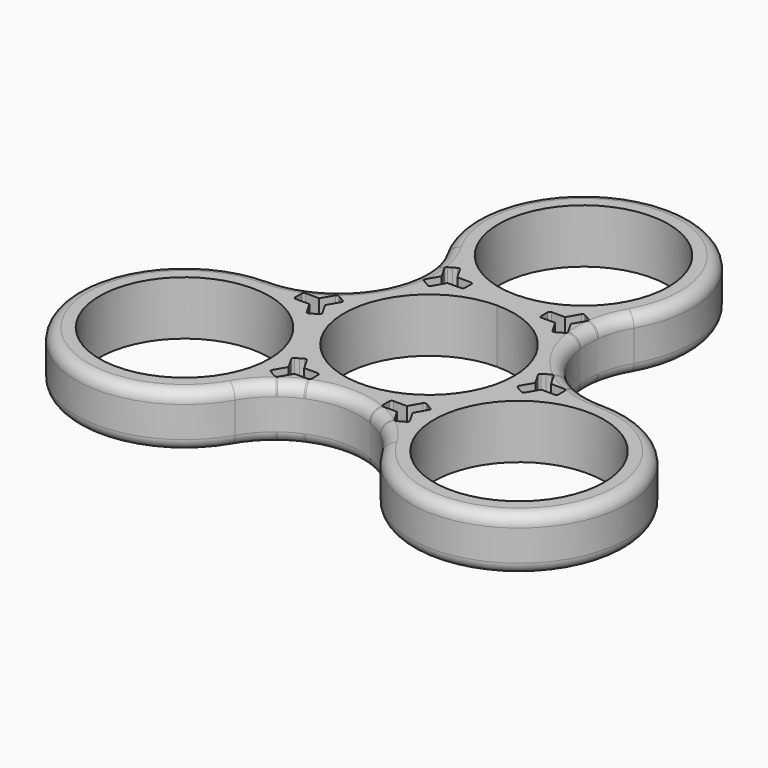
from build123d import *

# Parameters (mm, degrees)
F0_R     = 11
F1_DEPTH = 7
F2_R     = 1.5


with BuildPart() as f1:
    # F0 (on Top) → F1 (new body)
    with BuildSketch(Plane.XY):
        with BuildLine():
            ThreePointArc((21.650635, 1.5), (12.124356, 7), (12.124356, 18))
            ThreePointArc((12.124356, 18), (0, 39), (-12.124356, 18))
            ThreePointArc((-12.124356, 18), (-12.124356, 7), (-21.650635, 1.5))
            ThreePointArc((-21.650635, 1.5), (-33.774991, -19.5), (-9.526279, -19.5))
            ThreePointArc((-9.526279, -19.5), (0, -14), (9.526279, -19.5))
            ThreePointArc((9.526279, -19.5), (33.774991, -19.5), (21.650635, 1.5))
        make_face()
        with Locations((-21.650635, -12.5)):
            Circle(F0_R, mode=Mode.SUBTRACT)
        with BuildLine():
            Line((-6.645887, -13.488987), (-7.527324, -15.015681))
            ThreePointArc((-7.527324, -15.015681), (-7.694454, -15.143925), (-7.903316, -15.116428))
            Line((-7.903316, -15.116428), (-8.357767, -14.85405))
            Line((-8.357767, -14.85405), (-8.812218, -14.591673))
            ThreePointArc((-8.812218, -14.591673), (-8.940462, -14.424542), (-8.912965, -14.215681))
            Line((-8.912965, -14.215681), (-8.031527, -12.688987))
            Line((-8.031527, -12.688987), (-8.912965, -11.162293))
            ThreePointArc((-8.912965, -11.162293), (-8.940462, -10.953431), (-8.812218, -10.786301))
            Line((-8.812218, -10.786301), (-8.357767, -10.523923))
            Line((-8.357767, -10.523923), (-7.903316, -10.261546))
            ThreePointArc((-7.903316, -10.261546), (-7.694454, -10.234049), (-7.527324, -10.362293))
            Line((-7.527324, -10.362293), (-6.645887, -11.888987))
            Line((-6.645887, -11.888987), (-4.883012, -11.888987))
            ThreePointArc((-4.883012, -11.888987), (-4.688384, -11.969604), (-4.607767, -12.164232))
            Line((-4.607767, -12.164232), (-4.607767, -12.688987))
            Line((-4.607767, -12.688987), (-4.607767, -13.213742))
            ThreePointArc((-4.607767, -13.213742), (-4.688384, -13.408369), (-4.883012, -13.488987))
            Line((-4.883012, -13.488987), (-6.645887, -13.488987))
        make_face(mode=Mode.SUBTRACT)
        with BuildLine():
            Line((-13.74732, 2.616428), (-13.292868, 2.35405))
            Line((-13.292868, 2.35405), (-12.838417, 2.091673))
            ThreePointArc((-12.838417, 2.091673), (-12.710173, 1.924542), (-12.737671, 1.715681))
            Line((-12.737671, 1.715681), (-13.619108, 0.188987))
            Line((-13.619108, 0.188987), (-12.737671, -1.337707))
            ThreePointArc((-12.737671, -1.337707), (-12.710173, -1.546569), (-12.838417, -1.713699))
            Line((-12.838417, -1.713699), (-13.292868, -1.976077))
            Line((-13.292868, -1.976077), (-13.74732, -2.238454))
            ThreePointArc((-13.74732, -2.238454), (-13.956181, -2.265951), (-14.123311, -2.137707))
            Line((-14.123311, -2.137707), (-15.004749, -0.611013))
            Line((-15.004749, -0.611013), (-16.767623, -0.611013))
            ThreePointArc((-16.767623, -0.611013), (-16.962251, -0.530396), (-17.042868, -0.335768))
            Line((-17.042868, -0.335768), (-17.042868, 0.188987))
            Line((-17.042868, 0.188987), (-17.042868, 0.713742))
            ThreePointArc((-17.042868, 0.713742), (-16.962251, 0.908369), (-16.767623, 0.988987))
            Line((-16.767623, 0.988987), (-15.004749, 0.988987))
            Line((-15.004749, 0.988987), (-14.123311, 2.515681))
            ThreePointArc((-14.123311, 2.515681), (-13.956181, 2.643925), (-13.74732, 2.616428))
        make_face(mode=Mode.SUBTRACT)
        with BuildLine():
            Line((4.607767, -13.213742), (4.607767, -12.688987))
            Line((4.607767, -12.688987), (4.607767, -12.164232))
            ThreePointArc((4.607767, -12.164232), (4.688384, -11.969604), (4.883012, -11.888987))
            Line((4.883012, -11.888987), (6.645887, -11.888987))
            Line((6.645887, -11.888987), (7.527324, -10.362293))
            ThreePointArc((7.527324, -10.362293), (7.694454, -10.234049), (7.903316, -10.261546))
            Line((7.903316, -10.261546), (8.357767, -10.523923))
            Line((8.357767, -10.523923), (8.812218, -10.786301))
            ThreePointArc((8.812218, -10.786301), (8.940462, -10.953431), (8.912965, -11.162293))
            Line((8.912965, -11.162293), (8.031527, -12.688987))
            Line((8.031527, -12.688987), (8.912965, -14.215681))
            ThreePointArc((8.912965, -14.215681), (8.940462, -14.424542), (8.812218, -14.591673))
            Line((8.812218, -14.591673), (8.357767, -14.85405))
            Line((8.357767, -14.85405), (7.903316, -15.116428))
            ThreePointArc((7.903316, -15.116428), (7.694454, -15.143925), (7.527324, -15.015681))
            Line((7.527324, -15.015681), (6.645887, -13.488987))
            Line((6.645887, -13.488987), (4.883012, -13.488987))
            ThreePointArc((4.883012, -13.488987), (4.688384, -13.408369), (4.607767, -13.213742))
        make_face(mode=Mode.SUBTRACT)
        with Locations((21.650635, -12.5)):
            Circle(F0_R, mode=Mode.SUBTRACT)
        with BuildLine():
            ThreePointArc((0, 11), (7.778175, 7.778175), (11, 0))
            ThreePointArc((11, 0), (-7.778175, -7.778175), (0, 11))
        make_face(mode=Mode.SUBTRACT)
        with BuildLine():
            Line((15.004749, 0.988987), (16.767623, 0.988987))
            ThreePointArc((16.767623, 0.988987), (16.962251, 0.908369), (17.042868, 0.713742))
            Line((17.042868, 0.713742), (17.042868, 0.188987))
            Line((17.042868, 0.188987), (17.042868, -0.335768))
            ThreePointArc((17.042868, -0.335768), (16.962251, -0.530396), (16.767623, -0.611013))
            Line((16.767623, -0.611013), (15.004749, -0.611013))
            Line((15.004749, -0.611013), (14.123311, -2.137707))
            ThreePointArc((14.123311, -2.137707), (13.956181, -2.265951), (13.74732, -2.238454))
            Line((13.74732, -2.238454), (13.292868, -1.976077))
            Line((13.292868, -1.976077), (12.838417, -1.713699))
            ThreePointArc((12.838417, -1.713699), (12.710173, -1.546569), (12.737671, -1.337707))
            Line((12.737671, -1.337707), (13.619108, 0.188987))
            Line((13.619108, 0.188987), (12.737671, 1.715681))
            ThreePointArc((12.737671, 1.715681), (12.710173, 1.924542), (12.838417, 2.091673))
            Line((12.838417, 2.091673), (13.292868, 2.35405))
            Line((13.292868, 2.35405), (13.74732, 2.616428))
            ThreePointArc((13.74732, 2.616428), (13.956181, 2.643925), (14.123311, 2.515681))
            Line((14.123311, 2.515681), (15.004749, 0.988987))
        make_face(mode=Mode.SUBTRACT)
        with BuildLine():
            ThreePointArc((-8.23065, 14.927441), (-8.021789, 14.954938), (-7.854659, 14.826694))
            Line((-7.854659, 14.826694), (-6.973221, 13.3))
            Line((-6.973221, 13.3), (-5.210347, 13.3))
            ThreePointArc((-5.210347, 13.3), (-5.015719, 13.219383), (-4.935102, 13.024755))
            Line((-4.935102, 13.024755), (-4.935102, 12.5))
            Line((-4.935102, 12.5), (-4.935102, 11.975245))
            ThreePointArc((-4.935102, 11.975245), (-5.015719, 11.780617), (-5.210347, 11.7))
            Line((-5.210347, 11.7), (-6.973221, 11.7))
            Line((-6.973221, 11.7), (-7.854659, 10.173306))
            ThreePointArc((-7.854659, 10.173306), (-8.021789, 10.045062), (-8.23065, 10.072559))
            Line((-8.23065, 10.072559), (-8.685102, 10.334936))
            Line((-8.685102, 10.334936), (-9.139553, 10.597314))
            ThreePointArc((-9.139553, 10.597314), (-9.267797, 10.764445), (-9.240299, 10.973306))
            Line((-9.240299, 10.973306), (-8.358862, 12.5))
            Line((-8.358862, 12.5), (-9.240299, 14.026694))
            ThreePointArc((-9.240299, 14.026694), (-9.267797, 14.235555), (-9.139553, 14.402686))
            Line((-9.139553, 14.402686), (-8.685102, 14.665064))
            Line((-8.685102, 14.665064), (-8.23065, 14.927441))
        make_face(mode=Mode.SUBTRACT)
        with BuildLine():
            Line((4.935102, 11.975245), (4.935102, 12.5))
            Line((4.935102, 12.5), (4.935102, 13.024755))
            ThreePointArc((4.935102, 13.024755), (5.015719, 13.219383), (5.210347, 13.3))
            Line((5.210347, 13.3), (6.973221, 13.3))
            Line((6.973221, 13.3), (7.854659, 14.826694))
            ThreePointArc((7.854659, 14.826694), (8.021789, 14.954938), (8.23065, 14.927441))
            Line((8.23065, 14.927441), (8.685102, 14.665064))
            Line((8.685102, 14.665064), (9.139553, 14.402686))
            ThreePointArc((9.139553, 14.402686), (9.267797, 14.235555), (9.240299, 14.026694))
            Line((9.240299, 14.026694), (8.358862, 12.5))
            Line((8.358862, 12.5), (9.240299, 10.973306))
            ThreePointArc((9.240299, 10.973306), (9.267797, 10.764445), (9.139553, 10.597314))
            Line((9.139553, 10.597314), (8.685102, 10.334936))
            Line((8.685102, 10.334936), (8.23065, 10.072559))
            ThreePointArc((8.23065, 10.072559), (8.021789, 10.045062), (7.854659, 10.173306))
            Line((7.854659, 10.173306), (6.973221, 11.7))
            Line((6.973221, 11.7), (5.210347, 11.7))
            ThreePointArc((5.210347, 11.7), (5.015719, 11.780617), (4.935102, 11.975245))
        make_face(mode=Mode.SUBTRACT)
        with BuildLine():
            ThreePointArc((11, 25), (7.778175, 17.221825), (0, 14))
            ThreePointArc((0, 14), (-7.778175, 32.778175), (11, 25))
        make_face(mode=Mode.SUBTRACT)
    extrude(amount=F1_DEPTH)

    # F2
    f2_edges = [f1.edges().sort_by_distance(p)[0] for p in [
        (0, 39, 7),
        (0, 39, 0),
    ]]
    fillet(f2_edges, radius=F2_R)


solid = f1.part
